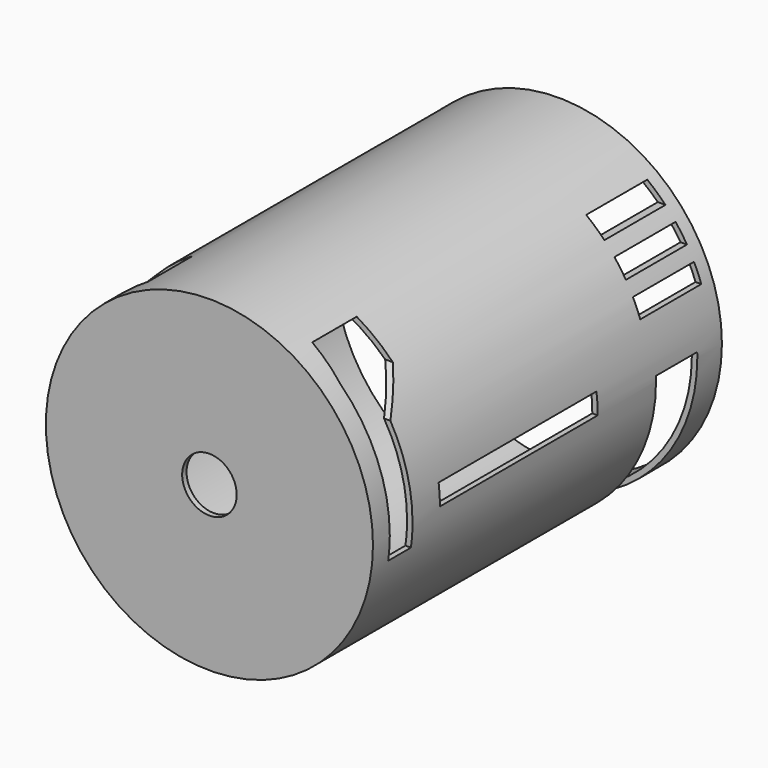
from build123d import *

# Parameters (mm, degrees)
F0_R      = 76.2
F1_DEPTH  = 203.2
F2_R      = 12.7
F3_DEPTH  = 38.1
F4_T      = -2.54
F5_W      = 35.56
F5_H      = 7.62
F5_H_2    = 8.059159
F6_DEPTH  = 88.9
F7_R      = 12.7
F8_DEPTH  = 241.301
F9_W      = 24.046719
F9_H      = 68.933934
F9_W_2    = 91.911912
F9_H_2    = 9.613124
F10_DEPTH = 127


with BuildPart() as f1:
    # F0 (on Front) → F1 (new body)
    with BuildSketch(Plane.XZ):
        Circle(F0_R)
    extrude(amount=F1_DEPTH)

    # F2 (on face) → F3 (join)
    with BuildSketch(Plane.XZ.offset(203.2)):
        Circle(F2_R)
    extrude(amount=F3_DEPTH)

    # F4
    f4_openings = [f1.faces().sort_by_distance(p)[0] for p in [
        (0, 0, 0),
    ]]
    offset(amount=F4_T, openings=f4_openings)

    # F5 (on Right) → F6 (cut, symmetric)
    with BuildSketch(Plane.YZ):
        with Locations((-24.242766, 56.482356)):
            Rectangle(F5_W, F5_H)
        with Locations((-24.242766, 43.461889)):
            Rectangle(F5_W, F5_H)
        with Locations((-24.242766, 29.646189)):
            Rectangle(F5_W, F5_H_2)
        Polygon((-165.21275, 65.912403), (-191.117182, 65.912403), (-193.419799, 54.399319), (-193.419799, -10.649604), (-180.17976, -10.649604), (-180.17976, 38.281005), (-165.21275, 52.672356), align=None)
    extrude(amount=F6_DEPTH, both=True, mode=Mode.SUBTRACT)

    # F7 (on face) → F8 (cut, through all)
    with BuildSketch(Plane.XZ.offset(241.3)):
        Circle(F7_R)
    extrude(amount=-F8_DEPTH, mode=Mode.SUBTRACT)

    # F9 (on Right) → F10 (cut, symmetric)
    with BuildSketch(Plane.YZ):
        with Locations((-26.361176, -32.065079)):
            Rectangle(F9_W, F9_H)
        with Locations((-118.273087, 4.806562)):
            Rectangle(F9_W_2, F9_H_2)
    extrude(amount=F10_DEPTH, both=True, mode=Mode.SUBTRACT)


solid = f1.part
